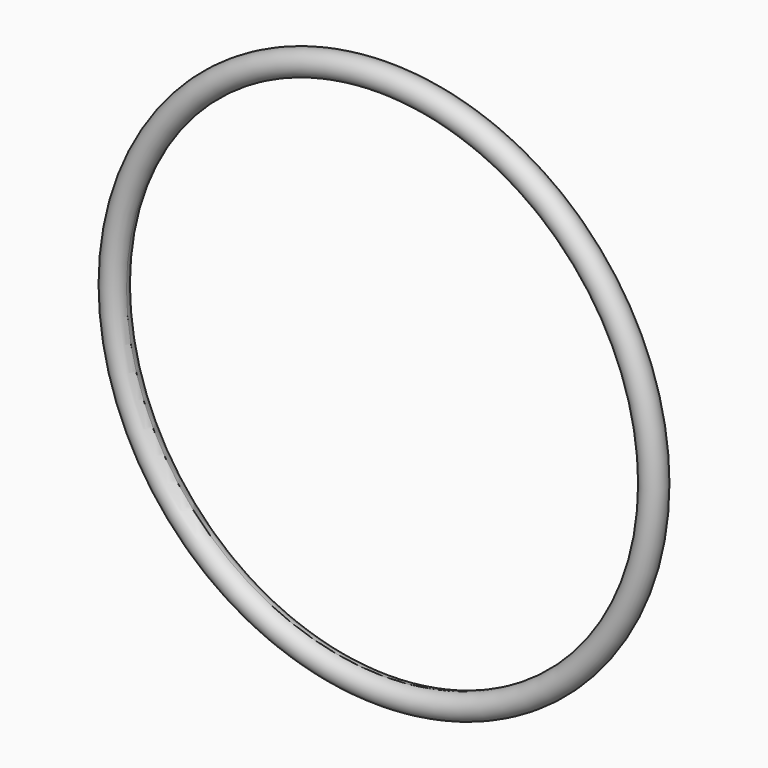
from build123d import *


with BuildPart() as f2:
    # F2: sweep along a path in F0
    with BuildLine(Plane.XZ) as f2_path:
        CenterArc((0, 0), 33.02, 0, 360)
    # F1 (on Right) → F2 (sweep)
    with BuildSketch(Plane.YZ):
        with BuildLine():
            ThreePointArc((0, 31.52), (1.06066, 31.95934), (1.5, 33.02))
            ThreePointArc((1.5, 33.02), (-1.06066, 34.08066), (0, 31.52))
        make_face()
    sweep(path=f2_path.line)


solid = f2.part
